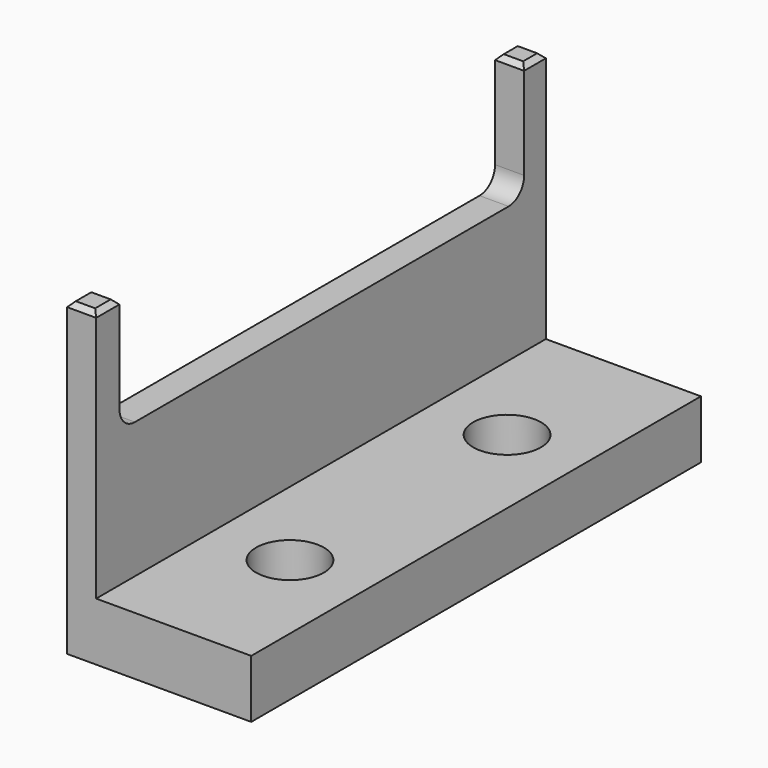
from build123d import *

# Parameters (mm, degrees)
F1_DEPTH = 3
F2_W     = 1.5
F2_H     = 29
F3_DEPTH = 13
F5_D     = 3.5
F7_DEPTH = 1.501
F8_R     = 1
F9_SIZE  = 0.25


with BuildPart() as f1:
    # F0 (on Top) → F1 (new body)
    with BuildSketch(Plane.XY):
        Polygon((0, 29), (0, 0), (9.5, 0), (9.5, 29), (1.5, 29), align=None)
    extrude(amount=F1_DEPTH)

    # F2 (on face) → F3 (join)
    with BuildSketch(Plane.XY.offset(3)):
        with Locations((0.75, 14.5)):
            Rectangle(F2_W, F2_H)
    extrude(amount=F3_DEPTH)

    # F5 (through all)
    with Locations(Plane.XY.offset(3)):
        with Locations((5.5, 21.5), (5.5, 7.5)):
            Hole(F5_D / 2)

    # F6 (on face) → F7 (cut, through all)
    with BuildSketch(Plane.YZ.offset(1.5)):
        Polygon((27.5, 16), (1.5, 16), (1.5, 10), (27.5994203985, 10), (27.5994203985, 16), align=None)
    extrude(amount=-F7_DEPTH, mode=Mode.SUBTRACT)

    # F8
    f8_edges = [f1.edges().sort_by_distance(p)[0] for p in [
        (0.75, 27.59942, 10),
        (0.75, 1.5, 10),
    ]]
    fillet(f8_edges, radius=F8_R)

    # F9
    f9_edges = [f1.edges().sort_by_distance(p)[0] for p in [
        (0.75, 27.59942, 16),
        (1.5, 28.29971, 16),
        (0.75, 29, 16),
        (0, 28.29971, 16),
        (0.75, 1.5, 16),
        (1.5, 0.75, 16),
        (0.75, 0, 16),
        (0, 0.75, 16),
    ]]
    chamfer(f9_edges, length=F9_SIZE)


solid = f1.part
